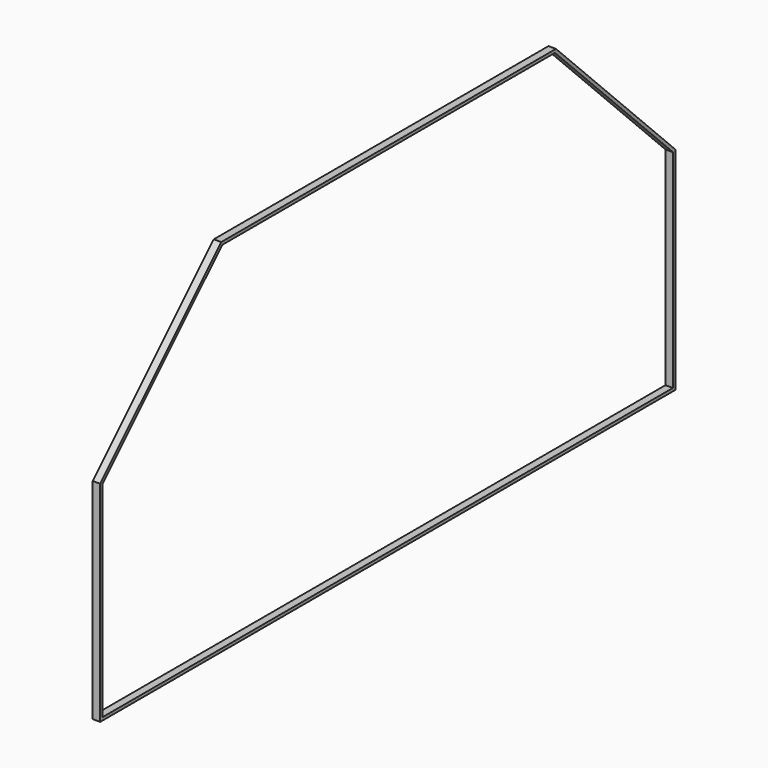
from build123d import *

# Parameters (mm, degrees)
F1_DEPTH = 12.5


with BuildPart() as f1:
    # F0 (on Right) → F1 (new body, symmetric)
    with BuildSketch(Plane.YZ):
        Polygon((0, 700), (0, 0), (2400, 0), (2400, 707.070973), (1902.07104, 1204.999933), (504.999933, 1204.999933), align=None)
        Polygon((10, 10), (10, 695.857864), (509.142069, 1194.999933), (1897.928905, 1194.999933), (2390, 702.928838), (2390, 10), align=None, mode=Mode.SUBTRACT)
    extrude(amount=F1_DEPTH, both=True)


solid = f1.part
